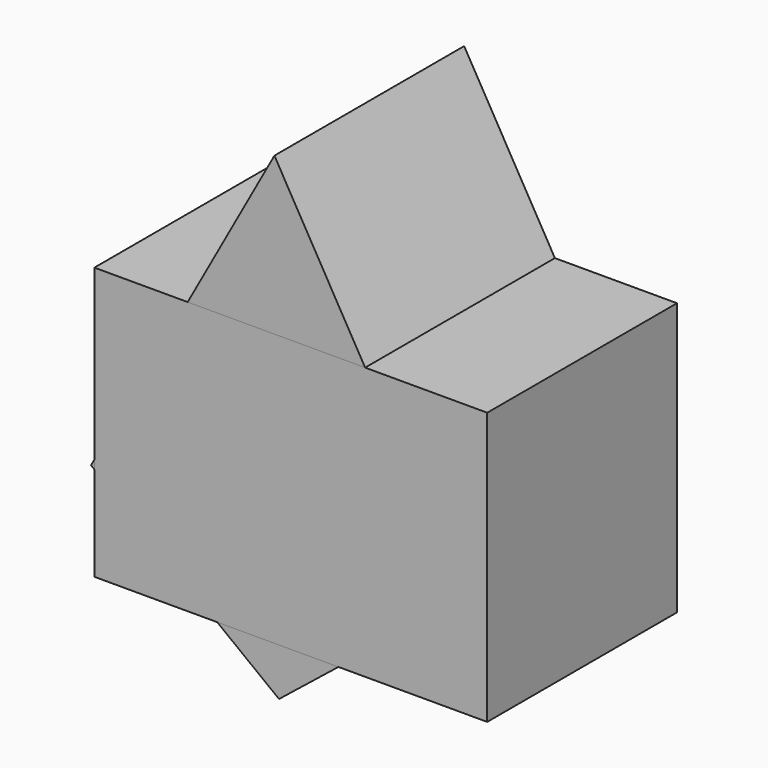
from build123d import *

# Parameters (mm, degrees)
F1_DEPTH = 25
F2_W     = 41.4044458885
F2_H     = 28.690431267
F3_DEPTH = 25


with BuildPart() as f1:
    # F0 (on Front) → F1 (new body)
    with BuildSketch(Plane.XZ):
        Polygon((-20, 34.6410161514), (-39.3296403253, -0.3784784894), (-19.5162861858, -15.6241663302), (0, 0), align=None)
        Polygon((-19.961485454, 0.1543219155), (-21.5525655212, 0.1543219155), (-23.1986101725, 4.3576661656), (-28.4954603596, 4.3576661656), (-30.121254901, 0.1543219155), (-31.6776204939, 0.1543219155), (-26.453092128, 13.4268225484), (-25.1599779643, 13.4268225484), align=None, mode=Mode.SUBTRACT)
        with BuildLine():
            Line((-18.1447613046, 0.1543219155), (-18.1447613046, 13.3718579642))
            Line((-18.1447613046, 13.3718579642), (-14.4100624561, 13.3718579642))
            add(Edge.make_bspline(
                [(-14.4100624561, 13.3718579642), (-11.780441036, 13.3718579642), (-10.6044882227, 12.5849965492)],
                knots=[0, 0, 0, 1, 1, 1], degree=2))
            add(Edge.make_bspline(
                [(-10.6044882227, 12.5849965492), (-9.4285354095, 11.7981351342), (-9.4285354095, 10.1000187716)],
                knots=[0, 0, 0, 1, 1, 1], degree=2))
            add(Edge.make_bspline(
                [(-9.4285354095, 10.1000187716), (-9.4285354095, 8.9226195219), (-10.0837711099, 8.1589010897)],
                knots=[0, 0, 0, 1, 1, 1], degree=2))
            add(Edge.make_bspline(
                [(-10.0837711099, 8.1589010897), (-10.7390068102, 7.3951826575), (-11.9974064997, 7.1695385752)],
                knots=[0, 0, 0, 1, 1, 1], degree=2))
            Line((-11.9974064997, 7.1695385752), (-11.9974064997, 7.0798595169))
            add(Edge.make_bspline(
                [(-11.9974064997, 7.0798595169), (-8.9859258635, 6.5649281497), (-8.9859258635, 3.9150566197)],
                knots=[0, 0, 0, 1, 1, 1], degree=2))
            add(Edge.make_bspline(
                [(-8.9859258635, 3.9150566197), (-8.9859258635, 2.1446184359), (-10.1835752232, 1.1494701757)],
                knots=[0, 0, 0, 1, 1, 1], degree=2))
            add(Edge.make_bspline(
                [(-10.1835752232, 1.1494701757), (-11.3812245828, 0.1543219155), (-13.5335219827, 0.1543219155)],
                knots=[0, 0, 0, 1, 1, 1], degree=2))
            Line((-13.5335219827, 0.1543219155), (-18.1447613046, 0.1543219155))
        make_face(mode=Mode.SUBTRACT)
    extrude(amount=F1_DEPTH)


with BuildPart() as f1b:
    # F0 (on Front) → F1, piece 2 (new body)
    with BuildSketch(Plane.XZ):
        with BuildLine():
            Line((-27.951600264, 5.7404593876), (-23.6759341926, 5.7404593876))
            Line((-23.6759341926, 5.7404593876), (-25.2149425485, 9.8367673423))
            add(Edge.make_bspline(
                [(-25.2149425485, 9.8367673423), (-25.5129084519, 10.6149501388), (-25.8282315925, 11.74317055)],
                knots=[0, 0, 0, 1, 1, 1], degree=2))
            add(Edge.make_bspline(
                [(-25.8282315925, 11.74317055), (-26.0278398191, 10.8753086952), (-26.3981275438, 9.8367673423)],
                knots=[0, 0, 0, 1, 1, 1], degree=2))
            Line((-26.3981275438, 9.8367673423), (-27.951600264, 5.7404593876))
        make_face()
    extrude(amount=F1_DEPTH)


with BuildPart() as f1c:
    # F0 (on Front) → F1, piece 3 (new body)
    with BuildSketch(Plane.XZ):
        with BuildLine():
            Line((-16.6086458216, 12.0411364535), (-16.6086458216, 7.7133986709))
            Line((-16.6086458216, 7.7133986709), (-14.0773820784, 7.7133986709))
            add(Edge.make_bspline(
                [(-14.0773820784, 7.7133986709), (-12.4486946642, 7.7133986709), (-11.7341550704, 8.2239907288)],
                knots=[0, 0, 0, 1, 1, 1], degree=2))
            add(Edge.make_bspline(
                [(-11.7341550704, 8.2239907288), (-11.0196154766, 8.7345827867), (-11.0196154766, 9.9438036377)],
                knots=[0, 0, 0, 1, 1, 1], degree=2))
            add(Edge.make_bspline(
                [(-11.0196154766, 9.9438036377), (-11.0196154766, 11.0575596847), (-11.8151555102, 11.5493480691)],
                knots=[0, 0, 0, 1, 1, 1], degree=2))
            add(Edge.make_bspline(
                [(-11.8151555102, 11.5493480691), (-12.6106955438, 12.0411364535), (-14.3464192534, 12.0411364535)],
                knots=[0, 0, 0, 1, 1, 1], degree=2))
            Line((-14.3464192534, 12.0411364535), (-16.6086458216, 12.0411364535))
        make_face()
    extrude(amount=F1_DEPTH)


with BuildPart() as f1d:
    # F0 (on Front) → F1, piece 4 (new body)
    with BuildSketch(Plane.XZ):
        with BuildLine():
            Line((-13.9761315287, 6.4116058887), (-16.6086458216, 6.4116058887))
            Line((-16.6086458216, 6.4116058887), (-16.6086458216, 1.4647933163))
            Line((-16.6086458216, 1.4647933163), (-13.8488451233, 1.4647933163))
            add(Edge.make_bspline(
                [(-13.8488451233, 1.4647933163), (-12.2490864376, 1.4647933163), (-11.4405284762, 2.083868106)],
                knots=[0, 0, 0, 1, 1, 1], degree=2))
            add(Edge.make_bspline(
                [(-11.4405284762, 2.083868106), (-10.6319705148, 2.7029428958), (-10.6319705148, 4.0249857879)],
                knots=[0, 0, 0, 1, 1, 1], degree=2))
            add(Edge.make_bspline(
                [(-10.6319705148, 4.0249857879), (-10.6319705148, 5.2544567489), (-11.4593321497, 5.8330313188)],
                knots=[0, 0, 0, 1, 1, 1], degree=2))
            add(Edge.make_bspline(
                [(-11.4593321497, 5.8330313188), (-12.2866937846, 6.4116058887), (-13.9761315287, 6.4116058887)],
                knots=[0, 0, 0, 1, 1, 1], degree=2))
        make_face()
    extrude(amount=F1_DEPTH)


with BuildPart() as f3:
    # F2 (on Front) → F3 (new body)
    with BuildSketch(Plane.XZ):
        with Locations((-18.2716822019, 3.7329476327)):
            Rectangle(F2_W, F2_H)
    extrude(amount=F3_DEPTH)


solid = Compound([f1.part, f1b.part, f1c.part, f1d.part, f3.part])
